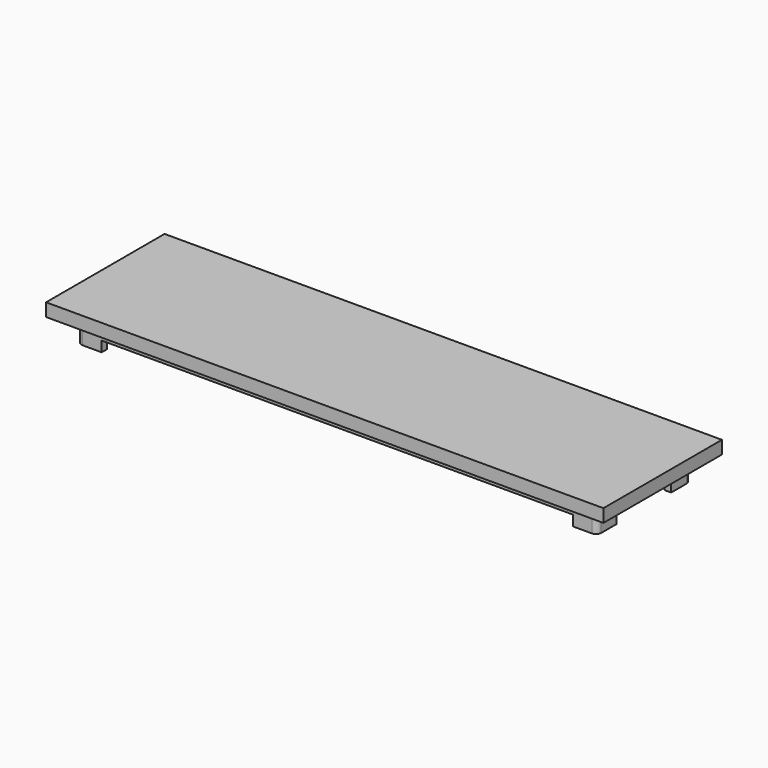
from build123d import *

# Parameters (mm, degrees)
F0_W     = 108.966
F0_H     = 28.956
F0_W_2   = 101.6
F0_H_2   = 22.86
F1_DEPTH = 2.54
F2_DEPTH = 2.54
F4_DEPTH = 2.032
F5_R     = 1.016


with BuildPart() as f1:
    # F0 (on Top) → F1 (new body)
    with BuildSketch(Plane.XY):
        Rectangle(F0_W, F0_H)
        Rectangle(F0_W_2, F0_H_2, mode=Mode.SUBTRACT)
        Rectangle(F0_W_2, F0_H_2)
    extrude(amount=F1_DEPTH)

    # F0 (on Top) → F2 (join)
    with BuildSketch(Plane.XY):
        Rectangle(F0_W_2, F0_H_2)
    extrude(amount=-F2_DEPTH)

    # F3 (on face) → F4 (join)
    with BuildSketch(Plane(origin=(0, 0, -2.54), x_dir=(1, 0, 0), z_dir=(0, 0, -1))):
        Polygon((-49.53, -6.6802), (-50.8, -6.6802), (-50.8, -11.43), (-46.0502, -11.43), (-46.0502, -10.16), (-49.53, -10.16), align=None)
        Polygon((50.8, 6.6802), (50.8, 11.43), (46.0502, 11.43), (46.0502, 10.16), (49.53, 10.16), (49.53, 6.6802), align=None)
        Polygon((50.8, -11.43), (50.8, -6.6802), (49.53, -6.6802), (49.53, -10.16), (46.0502, -10.16), (46.0502, -11.43), align=None)
        Polygon((-46.0502, 10.16), (-46.0502, 11.43), (-50.8, 11.43), (-50.8, 6.6802), (-49.53, 6.6802), (-49.53, 10.16), align=None)
    extrude(amount=F4_DEPTH)

    # F5
    f5_edges = [f1.edges().sort_by_distance(p)[0] for p in [
        (-50.8, -11.43, -2.286),
        (-50.8, 11.43, -2.286),
        (50.8, 11.43, -2.286),
        (50.8, -11.43, -2.286),
    ]]
    fillet(f5_edges, radius=F5_R)


solid = f1.part
